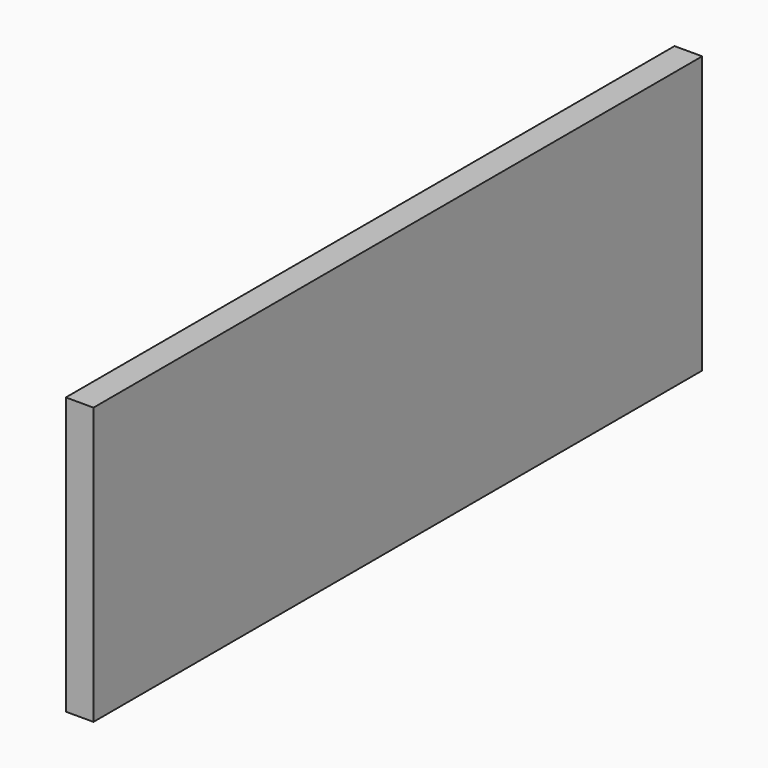
from build123d import *

# Parameters (mm, degrees)
F1_W     = 110
F1_H     = 40
F2_DEPTH = 4


with BuildPart() as f2:
    # F1 (on offset) → F2 (new body)
    with BuildSketch(Plane.YZ.offset(100)):
        Rectangle(F1_W, F1_H)
        Rectangle(F1_W, F1_H)
    extrude(amount=F2_DEPTH)


solid = f2.part
